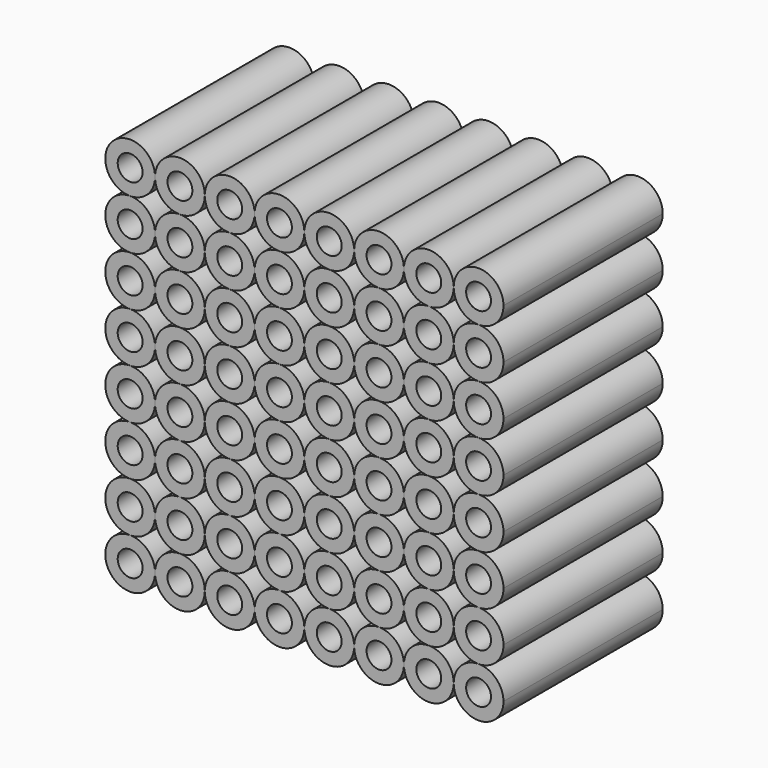
from build123d import *

# Parameters (mm, degrees)
F0_R     = 1.5875
F1_DEPTH = 25.4


with BuildPart() as f1:
    # F0 (on Front) → F1 (new body)
    with BuildSketch(Plane.XZ):
        with BuildLine():
            ThreePointArc((-9.525, 25.4), (-8.595064, 23.154936), (-6.35, 22.225))
            ThreePointArc((-6.35, 22.225), (-4.104936, 23.154936), (-3.175, 25.4))
            ThreePointArc((-3.175, 25.4), (-6.35, 28.575), (-9.525, 25.4))
        make_face()
        with Locations((-6.35, 25.4)):
            Circle(F0_R, mode=Mode.SUBTRACT)
        with BuildLine():
            ThreePointArc((-3.175, 25.4), (-2.245064, 23.154936), (0, 22.225))
            ThreePointArc((0, 22.225), (2.245064, 23.154936), (3.175, 25.4))
            ThreePointArc((3.175, 25.4), (0, 28.575), (-3.175, 25.4))
        make_face()
        with Locations((0, 25.4)):
            Circle(F0_R, mode=Mode.SUBTRACT)
        with BuildLine():
            ThreePointArc((3.175, 25.4), (4.104936, 23.154936), (6.35, 22.225))
            ThreePointArc((6.35, 22.225), (8.595064, 23.154936), (9.525, 25.4))
            ThreePointArc((9.525, 25.4), (6.35, 28.575), (3.175, 25.4))
        make_face()
        with Locations((6.35, 25.4)):
            Circle(F0_R, mode=Mode.SUBTRACT)
        with BuildLine():
            ThreePointArc((9.525, 25.4), (10.454936, 23.154936), (12.7, 22.225))
            ThreePointArc((12.7, 22.225), (14.945064, 23.154936), (15.875, 25.4))
            ThreePointArc((15.875, 25.4), (12.7, 28.575), (9.525, 25.4))
        make_face()
        with Locations((12.7, 25.4)):
            Circle(F0_R, mode=Mode.SUBTRACT)
        with BuildLine():
            ThreePointArc((-9.525, 25.4), (-14.945064, 27.645064), (-12.7, 22.225))
            ThreePointArc((-12.7, 22.225), (-10.454936, 23.154936), (-9.525, 25.4))
        make_face()
        with Locations((-12.7, 25.4)):
            Circle(F0_R, mode=Mode.SUBTRACT)
        with BuildLine():
            ThreePointArc((15.875, 25.4), (16.804936, 23.154936), (19.05, 22.225))
            ThreePointArc((19.05, 22.225), (21.295064, 23.154936), (22.225, 25.4))
            ThreePointArc((22.225, 25.4), (19.05, 28.575), (15.875, 25.4))
        make_face()
        with Locations((19.05, 25.4)):
            Circle(F0_R, mode=Mode.SUBTRACT)
        with BuildLine():
            ThreePointArc((22.225, 25.4), (23.154936, 23.154936), (25.4, 22.225))
            ThreePointArc((25.4, 22.225), (27.645064, 23.154936), (28.575, 25.4))
            ThreePointArc((28.575, 25.4), (25.4, 28.575), (22.225, 25.4))
        make_face()
        with Locations((25.4, 25.4)):
            Circle(F0_R, mode=Mode.SUBTRACT)
        with BuildLine():
            ThreePointArc((34.925, 25.4), (31.75, 28.575), (28.575, 25.4))
            ThreePointArc((28.575, 25.4), (29.504936, 23.154936), (31.75, 22.225))
            ThreePointArc((31.75, 22.225), (33.995064, 23.154936), (34.925, 25.4))
        make_face()
        with Locations((31.75, 25.4)):
            Circle(F0_R, mode=Mode.SUBTRACT)
        with BuildLine():
            ThreePointArc((31.75, 22.225), (29.504936, 21.295064), (28.575, 19.05))
            ThreePointArc((28.575, 19.05), (29.504936, 16.804936), (31.75, 15.875))
            ThreePointArc((31.75, 15.875), (33.995064, 16.804936), (34.925, 19.05))
            ThreePointArc((34.925, 19.05), (33.995064, 21.295064), (31.75, 22.225))
        make_face()
        with Locations((31.75, 19.05)):
            Circle(F0_R, mode=Mode.SUBTRACT)
        with BuildLine():
            ThreePointArc((25.4, 22.225), (23.154936, 21.295064), (22.225, 19.05))
            ThreePointArc((22.225, 19.05), (23.154936, 16.804936), (25.4, 15.875))
            ThreePointArc((25.4, 15.875), (27.645064, 16.804936), (28.575, 19.05))
            ThreePointArc((28.575, 19.05), (27.645064, 21.295064), (25.4, 22.225))
        make_face()
        with Locations((25.4, 19.05)):
            Circle(F0_R, mode=Mode.SUBTRACT)
        with BuildLine():
            ThreePointArc((15.875, 19.05), (16.804936, 16.804936), (19.05, 15.875))
            ThreePointArc((19.05, 15.875), (21.295064, 16.804936), (22.225, 19.05))
            ThreePointArc((22.225, 19.05), (21.295064, 21.295064), (19.05, 22.225))
            ThreePointArc((19.05, 22.225), (16.804936, 21.295064), (15.875, 19.05))
        make_face()
        with Locations((19.05, 19.05)):
            Circle(F0_R, mode=Mode.SUBTRACT)
        with BuildLine():
            ThreePointArc((9.525, 19.05), (10.454936, 16.804936), (12.7, 15.875))
            ThreePointArc((12.7, 15.875), (14.945064, 16.804936), (15.875, 19.05))
            ThreePointArc((15.875, 19.05), (14.945064, 21.295064), (12.7, 22.225))
            ThreePointArc((12.7, 22.225), (10.454936, 21.295064), (9.525, 19.05))
        make_face()
        with Locations((12.7, 19.05)):
            Circle(F0_R, mode=Mode.SUBTRACT)
        with BuildLine():
            ThreePointArc((3.175, 19.05), (4.104936, 16.804936), (6.35, 15.875))
            ThreePointArc((6.35, 15.875), (8.595064, 16.804936), (9.525, 19.05))
            ThreePointArc((9.525, 19.05), (8.595064, 21.295064), (6.35, 22.225))
            ThreePointArc((6.35, 22.225), (4.104936, 21.295064), (3.175, 19.05))
        make_face()
        with Locations((6.35, 19.05)):
            Circle(F0_R, mode=Mode.SUBTRACT)
        with BuildLine():
            ThreePointArc((-3.175, 19.05), (-2.245064, 16.804936), (0, 15.875))
            ThreePointArc((0, 15.875), (2.245064, 16.804936), (3.175, 19.05))
            ThreePointArc((3.175, 19.05), (2.245064, 21.295064), (0, 22.225))
            ThreePointArc((0, 22.225), (-2.245064, 21.295064), (-3.175, 19.05))
        make_face()
        with Locations((0, 19.05)):
            Circle(F0_R, mode=Mode.SUBTRACT)
        with BuildLine():
            ThreePointArc((-9.525, 19.05), (-8.595064, 16.804936), (-6.35, 15.875))
            ThreePointArc((-6.35, 15.875), (-4.104936, 16.804936), (-3.175, 19.05))
            ThreePointArc((-3.175, 19.05), (-4.104936, 21.295064), (-6.35, 22.225))
            ThreePointArc((-6.35, 22.225), (-8.595064, 21.295064), (-9.525, 19.05))
        make_face()
        with Locations((-6.35, 19.05)):
            Circle(F0_R, mode=Mode.SUBTRACT)
        with BuildLine():
            ThreePointArc((-12.7, 22.225), (-15.875, 19.05), (-12.7, 15.875))
            ThreePointArc((-12.7, 15.875), (-10.454936, 16.804936), (-9.525, 19.05))
            ThreePointArc((-9.525, 19.05), (-10.454936, 21.295064), (-12.7, 22.225))
        make_face()
        with Locations((-12.7, 19.05)):
            Circle(F0_R, mode=Mode.SUBTRACT)
        with BuildLine():
            ThreePointArc((-12.7, 9.525), (-10.454936, 10.454936), (-9.525, 12.7))
            ThreePointArc((-9.525, 12.7), (-10.454936, 14.945064), (-12.7, 15.875))
            ThreePointArc((-12.7, 15.875), (-15.875, 12.7), (-12.7, 9.525))
        make_face()
        with Locations((-12.7, 12.7)):
            Circle(F0_R, mode=Mode.SUBTRACT)
        with BuildLine():
            ThreePointArc((-9.525, 12.7), (-8.595064, 10.454936), (-6.35, 9.525))
            ThreePointArc((-6.35, 9.525), (-4.104936, 10.454936), (-3.175, 12.7))
            ThreePointArc((-3.175, 12.7), (-4.104936, 14.945064), (-6.35, 15.875))
            ThreePointArc((-6.35, 15.875), (-8.595064, 14.945064), (-9.525, 12.7))
        make_face()
        with Locations((-6.35, 12.7)):
            Circle(F0_R, mode=Mode.SUBTRACT)
        with BuildLine():
            ThreePointArc((3.175, 12.7), (4.104936, 10.454936), (6.35, 9.525))
            ThreePointArc((6.35, 9.525), (8.595064, 10.454936), (9.525, 12.7))
            ThreePointArc((9.525, 12.7), (8.595064, 14.945064), (6.35, 15.875))
            ThreePointArc((6.35, 15.875), (4.104936, 14.945064), (3.175, 12.7))
        make_face()
        with Locations((6.35, 12.7)):
            Circle(F0_R, mode=Mode.SUBTRACT)
        with BuildLine():
            ThreePointArc((9.525, 12.7), (10.454936, 10.454936), (12.7, 9.525))
            ThreePointArc((12.7, 9.525), (14.945064, 10.454936), (15.875, 12.7))
            ThreePointArc((15.875, 12.7), (14.945064, 14.945064), (12.7, 15.875))
            ThreePointArc((12.7, 15.875), (10.454936, 14.945064), (9.525, 12.7))
        make_face()
        with Locations((12.7, 12.7)):
            Circle(F0_R, mode=Mode.SUBTRACT)
        with BuildLine():
            ThreePointArc((19.05, 15.875), (16.804936, 14.945064), (15.875, 12.7))
            ThreePointArc((15.875, 12.7), (16.804936, 10.454936), (19.05, 9.525))
            ThreePointArc((19.05, 9.525), (21.295064, 10.454936), (22.225, 12.7))
            ThreePointArc((22.225, 12.7), (21.295064, 14.945064), (19.05, 15.875))
        make_face()
        with Locations((19.05, 12.7)):
            Circle(F0_R, mode=Mode.SUBTRACT)
        with BuildLine():
            ThreePointArc((25.4, 15.875), (23.154936, 14.945064), (22.225, 12.7))
            ThreePointArc((22.225, 12.7), (23.154936, 10.454936), (25.4, 9.525))
            ThreePointArc((25.4, 9.525), (27.645064, 10.454936), (28.575, 12.7))
            ThreePointArc((28.575, 12.7), (27.645064, 14.945064), (25.4, 15.875))
        make_face()
        with Locations((25.4, 12.7)):
            Circle(F0_R, mode=Mode.SUBTRACT)
        with BuildLine():
            ThreePointArc((31.75, 15.875), (29.504936, 14.945064), (28.575, 12.7))
            ThreePointArc((28.575, 12.7), (29.504936, 10.454936), (31.75, 9.525))
            ThreePointArc((31.75, 9.525), (33.995064, 10.454936), (34.925, 12.7))
            ThreePointArc((34.925, 12.7), (33.995064, 14.945064), (31.75, 15.875))
        make_face()
        with Locations((31.75, 12.7)):
            Circle(F0_R, mode=Mode.SUBTRACT)
        with BuildLine():
            ThreePointArc((25.4, 9.525), (23.154936, 8.595064), (22.225, 6.35))
            ThreePointArc((22.225, 6.35), (23.154936, 4.104936), (25.4, 3.175))
            ThreePointArc((25.4, 3.175), (27.645064, 4.104936), (28.575, 6.35))
            ThreePointArc((28.575, 6.35), (27.645064, 8.595064), (25.4, 9.525))
        make_face()
        with Locations((25.4, 6.35)):
            Circle(F0_R, mode=Mode.SUBTRACT)
        with BuildLine():
            ThreePointArc((19.05, 9.525), (16.804936, 8.595064), (15.875, 6.35))
            ThreePointArc((15.875, 6.35), (16.804936, 4.104936), (19.05, 3.175))
            ThreePointArc((19.05, 3.175), (21.295064, 4.104936), (22.225, 6.35))
            ThreePointArc((22.225, 6.35), (21.295064, 8.595064), (19.05, 9.525))
        make_face()
        with Locations((19.05, 6.35)):
            Circle(F0_R, mode=Mode.SUBTRACT)
        with BuildLine():
            ThreePointArc((12.7, 9.525), (10.454936, 8.595064), (9.525, 6.35))
            ThreePointArc((9.525, 6.35), (10.454936, 4.104936), (12.7, 3.175))
            ThreePointArc((12.7, 3.175), (14.945064, 4.104936), (15.875, 6.35))
            ThreePointArc((15.875, 6.35), (14.945064, 8.595064), (12.7, 9.525))
        make_face()
        with Locations((12.7, 6.35)):
            Circle(F0_R, mode=Mode.SUBTRACT)
        with BuildLine():
            ThreePointArc((3.175, 6.35), (4.104936, 4.104936), (6.35, 3.175))
            ThreePointArc((6.35, 3.175), (8.595064, 4.104936), (9.525, 6.35))
            ThreePointArc((9.525, 6.35), (8.595064, 8.595064), (6.35, 9.525))
            ThreePointArc((6.35, 9.525), (4.104936, 8.595064), (3.175, 6.35))
        make_face()
        with Locations((6.35, 6.35)):
            Circle(F0_R, mode=Mode.SUBTRACT)
        with BuildLine():
            ThreePointArc((-3.175, 6.35), (-2.245064, 4.104936), (0, 3.175))
            ThreePointArc((0, 3.175), (2.245064, 4.104936), (3.175, 6.35))
            ThreePointArc((3.175, 6.35), (2.245064, 8.595064), (0, 9.525))
            ThreePointArc((0, 9.525), (-2.245064, 8.595064), (-3.175, 6.35))
        make_face()
        with Locations((0, 6.35)):
            Circle(F0_R, mode=Mode.SUBTRACT)
        with BuildLine():
            ThreePointArc((-3.175, 12.7), (-2.245064, 10.454936), (0, 9.525))
            ThreePointArc((0, 9.525), (2.245064, 10.454936), (3.175, 12.7))
            ThreePointArc((3.175, 12.7), (2.245064, 14.945064), (0, 15.875))
            ThreePointArc((0, 15.875), (-2.245064, 14.945064), (-3.175, 12.7))
        make_face()
        with Locations((0, 12.7)):
            Circle(F0_R, mode=Mode.SUBTRACT)
        with BuildLine():
            ThreePointArc((-6.35, 3.175), (-4.104936, 4.104936), (-3.175, 6.35))
            ThreePointArc((-3.175, 6.35), (-4.104936, 8.595064), (-6.35, 9.525))
            ThreePointArc((-6.35, 9.525), (-8.595064, 8.595064), (-9.525, 6.35))
            ThreePointArc((-9.525, 6.35), (-8.595064, 4.104936), (-6.35, 3.175))
        make_face()
        with Locations((-6.35, 6.35)):
            Circle(F0_R, mode=Mode.SUBTRACT)
        with BuildLine():
            ThreePointArc((-12.7, 3.175), (-10.454936, 4.104936), (-9.525, 6.35))
            ThreePointArc((-9.525, 6.35), (-10.454936, 8.595064), (-12.7, 9.525))
            ThreePointArc((-12.7, 9.525), (-15.875, 6.35), (-12.7, 3.175))
        make_face()
        with Locations((-12.7, 6.35)):
            Circle(F0_R, mode=Mode.SUBTRACT)
        with BuildLine():
            ThreePointArc((31.75, 9.525), (29.504936, 8.595064), (28.575, 6.35))
            ThreePointArc((28.575, 6.35), (29.504936, 4.104936), (31.75, 3.175))
            ThreePointArc((31.75, 3.175), (33.995064, 4.104936), (34.925, 6.35))
            ThreePointArc((34.925, 6.35), (33.995064, 8.595064), (31.75, 9.525))
        make_face()
        with Locations((31.75, 6.35)):
            Circle(F0_R, mode=Mode.SUBTRACT)
        with BuildLine():
            ThreePointArc((31.75, 3.175), (29.504936, 2.245064), (28.575, 0))
            ThreePointArc((28.575, 0), (29.504936, -2.245064), (31.75, -3.175))
            ThreePointArc((31.75, -3.175), (33.995064, -2.245064), (34.925, 0))
            ThreePointArc((34.925, 0), (33.995064, 2.245064), (31.75, 3.175))
        make_face()
        with Locations((31.75, 0)):
            Circle(F0_R, mode=Mode.SUBTRACT)
        with BuildLine():
            ThreePointArc((25.4, 3.175), (23.154936, 2.245064), (22.225, 0))
            ThreePointArc((22.225, 0), (23.154936, -2.245064), (25.4, -3.175))
            ThreePointArc((25.4, -3.175), (27.645064, -2.245064), (28.575, 0))
            ThreePointArc((28.575, 0), (27.645064, 2.245064), (25.4, 3.175))
        make_face()
        with Locations((25.4, 0)):
            Circle(F0_R, mode=Mode.SUBTRACT)
        with BuildLine():
            ThreePointArc((19.05, 3.175), (16.804936, 2.245064), (15.875, 0))
            ThreePointArc((15.875, 0), (16.804936, -2.245064), (19.05, -3.175))
            ThreePointArc((19.05, -3.175), (21.295064, -2.245064), (22.225, 0))
            ThreePointArc((22.225, 0), (21.295064, 2.245064), (19.05, 3.175))
        make_face()
        with Locations((19.05, 0)):
            Circle(F0_R, mode=Mode.SUBTRACT)
        with BuildLine():
            ThreePointArc((12.7, 3.175), (10.454936, 2.245064), (9.525, 0))
            ThreePointArc((9.525, 0), (10.454936, -2.245064), (12.7, -3.175))
            ThreePointArc((12.7, -3.175), (14.945064, -2.245064), (15.875, 0))
            ThreePointArc((15.875, 0), (14.945064, 2.245064), (12.7, 3.175))
        make_face()
        with Locations((12.7, 0)):
            Circle(F0_R, mode=Mode.SUBTRACT)
        with BuildLine():
            ThreePointArc((6.35, 3.175), (4.104936, 2.245064), (3.175, 0))
            ThreePointArc((3.175, 0), (4.104936, -2.245064), (6.35, -3.175))
            ThreePointArc((6.35, -3.175), (8.595064, -2.245064), (9.525, 0))
            ThreePointArc((9.525, 0), (8.595064, 2.245064), (6.35, 3.175))
        make_face()
        with Locations((6.35, 0)):
            Circle(F0_R, mode=Mode.SUBTRACT)
        with BuildLine():
            ThreePointArc((0, -3.175), (2.245064, -2.245064), (3.175, 0))
            ThreePointArc((3.175, 0), (2.245064, 2.245064), (0, 3.175))
            ThreePointArc((0, 3.175), (-2.245064, 2.245064), (-3.175, 0))
            ThreePointArc((-3.175, 0), (-2.245064, -2.245064), (0, -3.175))
        make_face()
        Circle(F0_R, mode=Mode.SUBTRACT)
        with BuildLine():
            ThreePointArc((-6.35, -3.175), (-4.104936, -2.245064), (-3.175, 0))
            ThreePointArc((-3.175, 0), (-4.104936, 2.245064), (-6.35, 3.175))
            ThreePointArc((-6.35, 3.175), (-8.595064, 2.245064), (-9.525, 0))
            ThreePointArc((-9.525, 0), (-8.595064, -2.245064), (-6.35, -3.175))
        make_face()
        with Locations((-6.35, 0)):
            Circle(F0_R, mode=Mode.SUBTRACT)
        with BuildLine():
            ThreePointArc((-12.7, -3.175), (-10.454936, -2.245064), (-9.525, 0))
            ThreePointArc((-9.525, 0), (-10.454936, 2.245064), (-12.7, 3.175))
            ThreePointArc((-12.7, 3.175), (-15.875, 0), (-12.7, -3.175))
        make_face()
        with Locations((-12.7, 0)):
            Circle(F0_R, mode=Mode.SUBTRACT)
        with BuildLine():
            ThreePointArc((-12.7, -9.525), (-10.454936, -8.595064), (-9.525, -6.35))
            ThreePointArc((-9.525, -6.35), (-10.454936, -4.104936), (-12.7, -3.175))
            ThreePointArc((-12.7, -3.175), (-15.875, -6.35), (-12.7, -9.525))
        make_face()
        with Locations((-12.7, -6.35)):
            Circle(F0_R, mode=Mode.SUBTRACT)
        with BuildLine():
            ThreePointArc((-6.35, -9.525), (-4.104936, -8.595064), (-3.175, -6.35))
            ThreePointArc((-3.175, -6.35), (-4.104936, -4.104936), (-6.35, -3.175))
            ThreePointArc((-6.35, -3.175), (-8.595064, -4.104936), (-9.525, -6.35))
            ThreePointArc((-9.525, -6.35), (-8.595064, -8.595064), (-6.35, -9.525))
        make_face()
        with Locations((-6.35, -6.35)):
            Circle(F0_R, mode=Mode.SUBTRACT)
        with BuildLine():
            ThreePointArc((3.175, -6.35), (2.245064, -4.104936), (0, -3.175))
            ThreePointArc((0, -3.175), (-2.245064, -4.104936), (-3.175, -6.35))
            ThreePointArc((-3.175, -6.35), (-2.245064, -8.595064), (0, -9.525))
            ThreePointArc((0, -9.525), (2.245064, -8.595064), (3.175, -6.35))
        make_face()
        with Locations((0, -6.35)):
            Circle(F0_R, mode=Mode.SUBTRACT)
        with BuildLine():
            ThreePointArc((9.525, -6.35), (8.595064, -4.104936), (6.35, -3.175))
            ThreePointArc((6.35, -3.175), (4.104936, -4.104936), (3.175, -6.35))
            ThreePointArc((3.175, -6.35), (4.104936, -8.595064), (6.35, -9.525))
            ThreePointArc((6.35, -9.525), (8.595064, -8.595064), (9.525, -6.35))
        make_face()
        with Locations((6.35, -6.35)):
            Circle(F0_R, mode=Mode.SUBTRACT)
        with BuildLine():
            ThreePointArc((12.7, -3.175), (10.454936, -4.104936), (9.525, -6.35))
            ThreePointArc((9.525, -6.35), (10.454936, -8.595064), (12.7, -9.525))
            ThreePointArc((12.7, -9.525), (14.945064, -8.595064), (15.875, -6.35))
            ThreePointArc((15.875, -6.35), (14.945064, -4.104936), (12.7, -3.175))
        make_face()
        with Locations((12.7, -6.35)):
            Circle(F0_R, mode=Mode.SUBTRACT)
        with BuildLine():
            ThreePointArc((19.05, -3.175), (16.804936, -4.104936), (15.875, -6.35))
            ThreePointArc((15.875, -6.35), (16.804936, -8.595064), (19.05, -9.525))
            ThreePointArc((19.05, -9.525), (21.295064, -8.595064), (22.225, -6.35))
            ThreePointArc((22.225, -6.35), (21.295064, -4.104936), (19.05, -3.175))
        make_face()
        with Locations((19.05, -6.35)):
            Circle(F0_R, mode=Mode.SUBTRACT)
        with BuildLine():
            ThreePointArc((25.4, -3.175), (23.154936, -4.104936), (22.225, -6.35))
            ThreePointArc((22.225, -6.35), (23.154936, -8.595064), (25.4, -9.525))
            ThreePointArc((25.4, -9.525), (27.645064, -8.595064), (28.575, -6.35))
            ThreePointArc((28.575, -6.35), (27.645064, -4.104936), (25.4, -3.175))
        make_face()
        with Locations((25.4, -6.35)):
            Circle(F0_R, mode=Mode.SUBTRACT)
        with BuildLine():
            ThreePointArc((31.75, -3.175), (29.504936, -4.104936), (28.575, -6.35))
            ThreePointArc((28.575, -6.35), (29.504936, -8.595064), (31.75, -9.525))
            ThreePointArc((31.75, -9.525), (33.995064, -8.595064), (34.925, -6.35))
            ThreePointArc((34.925, -6.35), (33.995064, -4.104936), (31.75, -3.175))
        make_face()
        with Locations((31.75, -6.35)):
            Circle(F0_R, mode=Mode.SUBTRACT)
        with BuildLine():
            ThreePointArc((-12.7, -15.875), (-10.454936, -14.945064), (-9.525, -12.7))
            ThreePointArc((-9.525, -12.7), (-10.454936, -10.454936), (-12.7, -9.525))
            ThreePointArc((-12.7, -9.525), (-15.875, -12.7), (-12.7, -15.875))
        make_face()
        with Locations((-12.7, -12.7)):
            Circle(F0_R, mode=Mode.SUBTRACT)
        with BuildLine():
            ThreePointArc((3.175, -12.7), (2.245064, -10.454936), (0, -9.525))
            ThreePointArc((0, -9.525), (-2.245064, -10.454936), (-3.175, -12.7))
            ThreePointArc((-3.175, -12.7), (-2.245064, -14.945064), (0, -15.875))
            ThreePointArc((0, -15.875), (2.245064, -14.945064), (3.175, -12.7))
        make_face()
        with Locations((0, -12.7)):
            Circle(F0_R, mode=Mode.SUBTRACT)
        with BuildLine():
            ThreePointArc((9.525, -12.7), (8.595064, -10.454936), (6.35, -9.525))
            ThreePointArc((6.35, -9.525), (4.104936, -10.454936), (3.175, -12.7))
            ThreePointArc((3.175, -12.7), (4.104936, -14.945064), (6.35, -15.875))
            ThreePointArc((6.35, -15.875), (8.595064, -14.945064), (9.525, -12.7))
        make_face()
        with Locations((6.35, -12.7)):
            Circle(F0_R, mode=Mode.SUBTRACT)
        with BuildLine():
            ThreePointArc((15.875, -12.7), (14.945064, -10.454936), (12.7, -9.525))
            ThreePointArc((12.7, -9.525), (10.454936, -10.454936), (9.525, -12.7))
            ThreePointArc((9.525, -12.7), (10.454936, -14.945064), (12.7, -15.875))
            ThreePointArc((12.7, -15.875), (14.945064, -14.945064), (15.875, -12.7))
        make_face()
        with Locations((12.7, -12.7)):
            Circle(F0_R, mode=Mode.SUBTRACT)
        with BuildLine():
            ThreePointArc((31.75, -9.525), (29.504936, -10.454936), (28.575, -12.7))
            ThreePointArc((28.575, -12.7), (29.504936, -14.945064), (31.75, -15.875))
            ThreePointArc((31.75, -15.875), (33.995064, -14.945064), (34.925, -12.7))
            ThreePointArc((34.925, -12.7), (33.995064, -10.454936), (31.75, -9.525))
        make_face()
        with Locations((31.75, -12.7)):
            Circle(F0_R, mode=Mode.SUBTRACT)
        with BuildLine():
            ThreePointArc((25.4, -9.525), (23.154936, -10.454936), (22.225, -12.7))
            ThreePointArc((22.225, -12.7), (23.154936, -14.945064), (25.4, -15.875))
            ThreePointArc((25.4, -15.875), (27.645064, -14.945064), (28.575, -12.7))
            ThreePointArc((28.575, -12.7), (27.645064, -10.454936), (25.4, -9.525))
        make_face()
        with Locations((25.4, -12.7)):
            Circle(F0_R, mode=Mode.SUBTRACT)
        with BuildLine():
            ThreePointArc((-3.175, -12.7), (-4.104936, -10.454936), (-6.35, -9.525))
            ThreePointArc((-6.35, -9.525), (-8.595064, -10.454936), (-9.525, -12.7))
            ThreePointArc((-9.525, -12.7), (-8.595064, -14.945064), (-6.35, -15.875))
            ThreePointArc((-6.35, -15.875), (-4.104936, -14.945064), (-3.175, -12.7))
        make_face()
        with Locations((-6.35, -12.7)):
            Circle(F0_R, mode=Mode.SUBTRACT)
        with BuildLine():
            ThreePointArc((19.05, -9.525), (16.804936, -10.454936), (15.875, -12.7))
            ThreePointArc((15.875, -12.7), (16.804936, -14.945064), (19.05, -15.875))
            ThreePointArc((19.05, -15.875), (21.295064, -14.945064), (22.225, -12.7))
            ThreePointArc((22.225, -12.7), (21.295064, -10.454936), (19.05, -9.525))
        make_face()
        with Locations((19.05, -12.7)):
            Circle(F0_R, mode=Mode.SUBTRACT)
        with BuildLine():
            ThreePointArc((-9.525, -19.05), (-10.454936, -16.804936), (-12.7, -15.875))
            ThreePointArc((-12.7, -15.875), (-14.945064, -21.295064), (-9.525, -19.05))
        make_face()
        with Locations((-12.7, -19.05)):
            Circle(F0_R, mode=Mode.SUBTRACT)
        with BuildLine():
            ThreePointArc((-3.175, -19.05), (-4.104936, -16.804936), (-6.35, -15.875))
            ThreePointArc((-6.35, -15.875), (-8.595064, -16.804936), (-9.525, -19.05))
            ThreePointArc((-9.525, -19.05), (-6.35, -22.225), (-3.175, -19.05))
        make_face()
        with Locations((-6.35, -19.05)):
            Circle(F0_R, mode=Mode.SUBTRACT)
        with BuildLine():
            ThreePointArc((3.175, -19.05), (2.245064, -16.804936), (0, -15.875))
            ThreePointArc((0, -15.875), (-2.245064, -16.804936), (-3.175, -19.05))
            ThreePointArc((-3.175, -19.05), (-2.245064, -21.295064), (0, -22.225))
            ThreePointArc((0, -22.225), (2.245064, -21.295064), (3.175, -19.05))
        make_face()
        with Locations((0, -19.05)):
            Circle(F0_R, mode=Mode.SUBTRACT)
        with BuildLine():
            ThreePointArc((9.525, -19.05), (8.595064, -16.804936), (6.35, -15.875))
            ThreePointArc((6.35, -15.875), (4.104936, -16.804936), (3.175, -19.05))
            ThreePointArc((3.175, -19.05), (6.35, -22.225), (9.525, -19.05))
        make_face()
        with Locations((6.35, -19.05)):
            Circle(F0_R, mode=Mode.SUBTRACT)
        with BuildLine():
            ThreePointArc((15.875, -19.05), (14.945064, -16.804936), (12.7, -15.875))
            ThreePointArc((12.7, -15.875), (10.454936, -16.804936), (9.525, -19.05))
            ThreePointArc((9.525, -19.05), (12.7, -22.225), (15.875, -19.05))
        make_face()
        with Locations((12.7, -19.05)):
            Circle(F0_R, mode=Mode.SUBTRACT)
        with BuildLine():
            ThreePointArc((22.225, -19.05), (21.295064, -16.804936), (19.05, -15.875))
            ThreePointArc((19.05, -15.875), (16.804936, -16.804936), (15.875, -19.05))
            ThreePointArc((15.875, -19.05), (19.05, -22.225), (22.225, -19.05))
        make_face()
        with Locations((19.05, -19.05)):
            Circle(F0_R, mode=Mode.SUBTRACT)
        with BuildLine():
            ThreePointArc((25.4, -15.875), (23.154936, -16.804936), (22.225, -19.05))
            ThreePointArc((22.225, -19.05), (25.4, -22.225), (28.575, -19.05))
            ThreePointArc((28.575, -19.05), (27.645064, -16.804936), (25.4, -15.875))
        make_face()
        with Locations((25.4, -19.05)):
            Circle(F0_R, mode=Mode.SUBTRACT)
        with BuildLine():
            ThreePointArc((31.75, -15.875), (29.504936, -16.804936), (28.575, -19.05))
            ThreePointArc((28.575, -19.05), (31.75, -22.225), (34.925, -19.05))
            ThreePointArc((34.925, -19.05), (33.995064, -16.804936), (31.75, -15.875))
        make_face()
        with Locations((31.75, -19.05)):
            Circle(F0_R, mode=Mode.SUBTRACT)
    extrude(amount=-F1_DEPTH)


solid = f1.part
